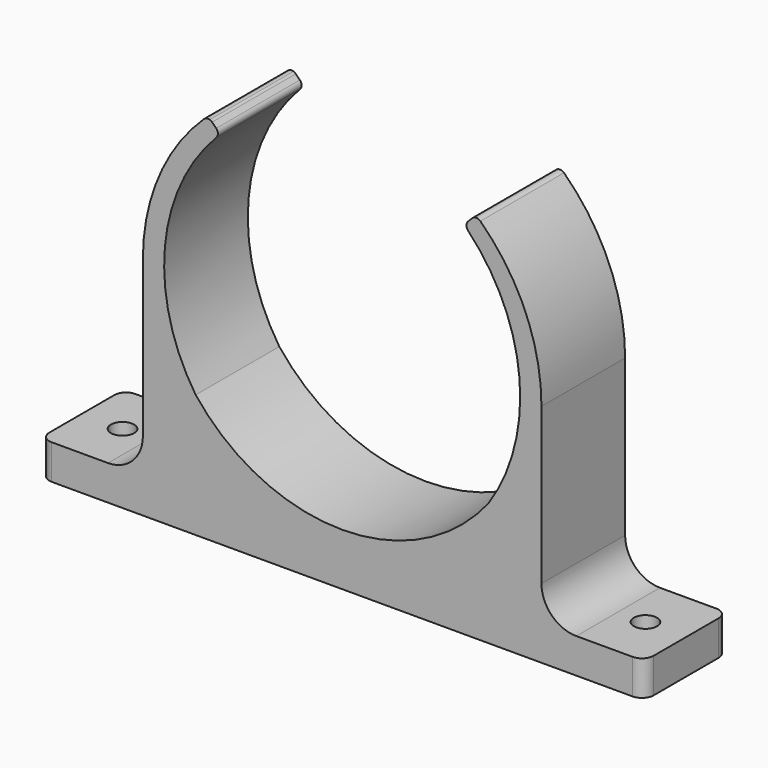
from build123d import *

# Parameters (mm, degrees)
F1_DEPTH = 18
F2_R     = 2
F3_DEPTH = 6
F4_R     = 2
F5_R     = 6


with BuildPart() as f1:
    # F0 (on Front) → F1 (new body)
    with BuildSketch(Plane.XZ):
        with BuildLine():
            ThreePointArc((25.212652, -19.867868), (0, -32.1), (-25.212652, -19.867868))
            ThreePointArc((-25.212652, -19.867868), (-30.513321, 0.829972), (-21.663506, 20.276783))
            ThreePointArc((-21.663506, 20.276783), (-21.384271, 20.979731), (-21.677117, 21.677117))
            Line((-21.677117, 21.677117), (-22.384578, 22.384578))
            ThreePointArc((-22.384578, 22.384578), (-22.564076, 22.526959), (-22.77127, 22.624748))
            ThreePointArc((-22.77127, 22.624748), (-23.308835, 22.653609), (-23.783467, 22.399576))
            ThreePointArc((-23.783467, 22.399576), (-31.56023, 11.156534), (-34.29906, -2.236855))
            Line((-34.29906, -2.236855), (-34.29906, -35.098328))
            Line((-34.29906, -35.098328), (-52, -35.098328))
            Line((-52, -35.098328), (-52, -41.098328))
            Line((-52, -41.098328), (0, -41.098328))
            Line((0, -41.098328), (52, -41.098328))
            Line((52, -41.098328), (52, -35.098328))
            Line((52, -35.098328), (34.29906, -35.098328))
            Line((34.29906, -35.098328), (34.29906, -2.236855))
            ThreePointArc((34.29906, -2.236855), (31.56023, 11.156534), (23.783467, 22.399576))
            ThreePointArc((23.783467, 22.399576), (23.308835, 22.653609), (22.77127, 22.624748))
            ThreePointArc((22.77127, 22.624748), (22.564076, 22.526959), (22.384578, 22.384578))
            Line((22.384578, 22.384578), (21.677117, 21.677117))
            ThreePointArc((21.677117, 21.677117), (21.384271, 20.979731), (21.663506, 20.276783))
            ThreePointArc((21.663506, 20.276783), (30.513321, 0.829972), (25.212652, -19.867868))
        make_face()
    extrude(amount=F1_DEPTH)

    # F2 (on face) → F3 (cut, through all)
    with BuildSketch(Plane(origin=(0, 0, -41.098328), x_dir=(1, 0, 0), z_dir=(0, 0, -1))):
        with Locations((-45, 9)):
            Circle(F2_R)
        with Locations((45, 9)):
            Circle(F2_R)
    extrude(amount=-F3_DEPTH, mode=Mode.SUBTRACT)

    # F4
    f4_edges = [f1.edges().sort_by_distance(p)[0] for p in [
        (-52, 0, -38.098328),
        (-52, -18, -38.098328),
        (52, -18, -38.098328),
        (52, 0, -38.098328),
    ]]
    fillet(f4_edges, radius=F4_R)

    # F5
    f5_edges = [f1.edges().sort_by_distance(p)[0] for p in [
        (-34.29906, -9, -35.098328),
        (34.29906, -9, -35.098328),
    ]]
    fillet(f5_edges, radius=F5_R)


solid = f1.part
